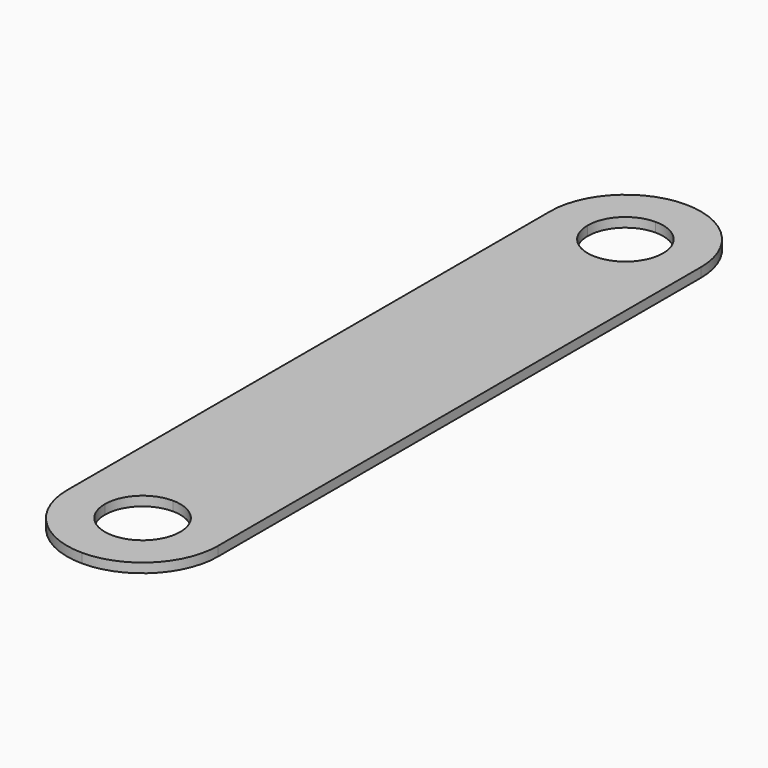
from build123d import *

# Parameters (mm, degrees)
F1_DEPTH = 1.5875


with BuildPart() as f1:
    # F0 (on Top) → F1 (new body)
    with BuildSketch(Plane.XY):
        with BuildLine():
            ThreePointArc((0, 57.15), (4.490128, 55.290128), (6.35, 50.8))
            Line((6.35, 50.8), (12.7, 50.8))
            ThreePointArc((12.7, 50.8), (8.980256, 59.780256), (0, 63.5))
            Line((0, 63.5), (0, 57.15))
        make_face()
        with BuildLine():
            Line((12.7, 50.8), (6.35, 50.8))
            ThreePointArc((6.35, 50.8), (4.490128, 46.309872), (0, 44.45))
            Line((0, 44.45), (0, -44.45))
            ThreePointArc((0, -44.45), (4.490128, -46.309872), (6.35, -50.8))
            Line((6.35, -50.8), (12.7, -50.8))
            Line((12.7, -50.8), (12.7, 50.8))
        make_face()
        with BuildLine():
            ThreePointArc((-6.35, 50.8), (-4.490128, 55.290128), (0, 57.15))
            Line((0, 57.15), (0, 63.5))
            ThreePointArc((0, 63.5), (-8.980256, 59.780256), (-12.7, 50.8))
            Line((-12.7, 50.8), (-6.35, 50.8))
        make_face()
        with BuildLine():
            Line((0, -44.45), (0, 44.45))
            ThreePointArc((0, 44.45), (-4.490128, 46.309872), (-6.35, 50.8))
            Line((-6.35, 50.8), (-12.7, 50.8))
            Line((-12.7, 50.8), (-12.7, -50.8))
            Line((-12.7, -50.8), (-6.35, -50.8))
            ThreePointArc((-6.35, -50.8), (-4.490128, -46.309872), (0, -44.45))
        make_face()
        with BuildLine():
            ThreePointArc((0, -63.5), (8.980256, -59.780256), (12.7, -50.8))
            Line((12.7, -50.8), (6.35, -50.8))
            ThreePointArc((6.35, -50.8), (4.490128, -55.290128), (0, -57.15))
            Line((0, -57.15), (0, -63.5))
        make_face()
        with BuildLine():
            ThreePointArc((-12.7, -50.8), (-8.980256, -59.780256), (0, -63.5))
            Line((0, -63.5), (0, -57.15))
            ThreePointArc((0, -57.15), (-4.490128, -55.290128), (-6.35, -50.8))
            Line((-6.35, -50.8), (-12.7, -50.8))
        make_face()
    extrude(amount=F1_DEPTH)


solid = f1.part
